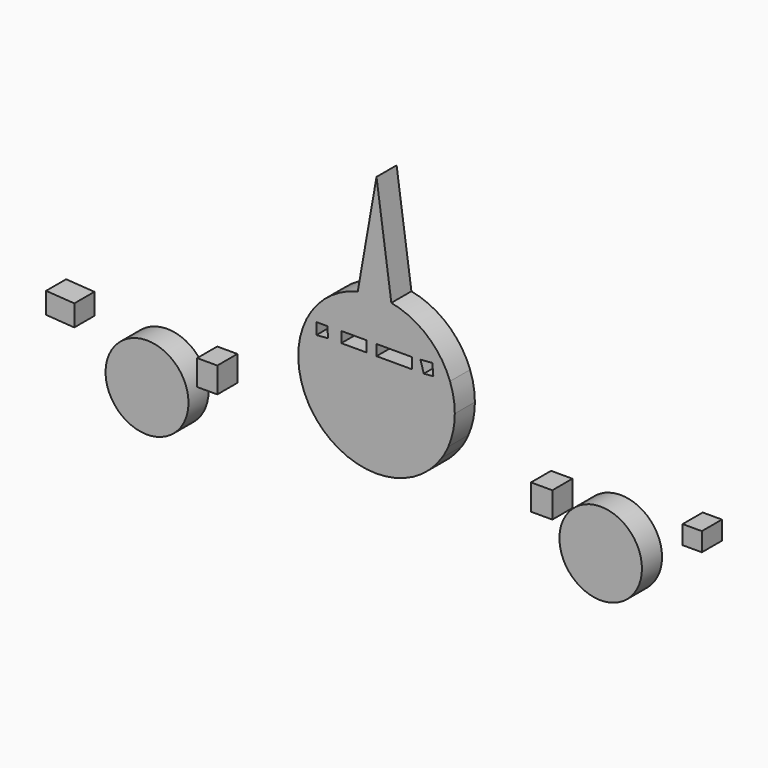
from build123d import *

# Parameters (mm, degrees)
F0_W     = 1.942249
F0_H     = 1.885825
F0_W_2   = 2.159481
F0_H_2   = 2.612702
F0_W_3   = 2.541156
F0_H_3   = 1.089067
F0_W_4   = 3.574837
F0_R     = 4.195456
F0_R_2   = 4.175664
F1_DEPTH = 2.54


with BuildPart() as f1:
    # F0 (on Front) → F1 (new body)
    with BuildSketch(Plane.XZ):
        Polygon((-30.579834, -3.743665), (-30.579834, -1.598842), (-33.437075, -1.407926), (-33.437075, -3.552749), align=None)
        Polygon((-16.111046, -2.429206), (-18.152609, -2.429206), (-16.111046, -2.56562), align=None)
        with Locations((31.946669, -2.180492)):
            Rectangle(F0_W, F0_H)
        with Locations((16.709519, -3.82436)):
            Rectangle(F0_W_2, F0_H_2)
        with BuildLine():
            ThreePointArc((-6.883895, -2.815002), (-6.770442, -3.007984), (-6.651581, -3.197684))
            Line((-6.651581, -3.197684), (-6.883895, -2.815002))
        make_face()
        with BuildLine():
            Line((-6.883895, -2.815002), (-6.651581, -3.197684))
            ThreePointArc((-6.651581, -3.197684), (-0.043896, -6.818099), (6.603513, -3.271147))
            Line((6.603513, -3.271147), (7.261044, -2.061597))
            ThreePointArc((7.261044, -2.061597), (7.75377, -0.513718), (7.920348, 1.102127))
            ThreePointArc((7.920348, 1.102127), (7.798614, 2.485432), (7.437154, 3.826213))
            ThreePointArc((7.437154, 3.826213), (5.132587, 7.134412), (1.498054, 8.879514))
            ThreePointArc((1.498054, 8.879514), (-0.204947, 9.019823), (-1.898408, 8.791598))
            ThreePointArc((-1.898408, 8.791598), (-7.277397, 4.228053), (-6.883895, -2.815002))
        make_face()
        Polygon((-4.986587, 4.703813), (-4.898098, 3.643283), (-6.086634, 3.544114), (-6.086634, 4.703813), align=None, mode=Mode.SUBTRACT)
        with Locations((-2.294023, 4.187816)):
            Rectangle(F0_W_3, F0_H_3, mode=Mode.SUBTRACT)
        with Locations((1.787419, 4.187816)):
            Rectangle(F0_W_4, F0_H_3, mode=Mode.SUBTRACT)
        Polygon((5.649325, 4.883205), (5.746091, 3.723483), (4.784911, 3.643283), (4.438364, 4.782164), align=None, mode=Mode.SUBTRACT)
        Polygon((-16.111046, -2.56562), (-18.152609, -2.429206), (-18.152609, -5.005839), (-16.111046, -5.005839), align=None)
        with BuildLine():
            Line((7.261044, -2.061597), (6.603513, -3.271147))
            ThreePointArc((6.603513, -3.271147), (6.958609, -2.680686), (7.261044, -2.061597))
        make_face()
        with BuildLine():
            Line((0, 19.616263), (-1.898408, 8.791598))
            ThreePointArc((-1.898408, 8.791598), (-0.204947, 9.019823), (1.498054, 8.879514))
            Line((1.498054, 8.879514), (0, 19.616263))
        make_face()
        with Locations((-23.2234, -6.697624)):
            Circle(F0_R)
        with Locations((22.68162, -6.553722)):
            Circle(F0_R_2)
    extrude(amount=-F1_DEPTH)


solid = f1.part
